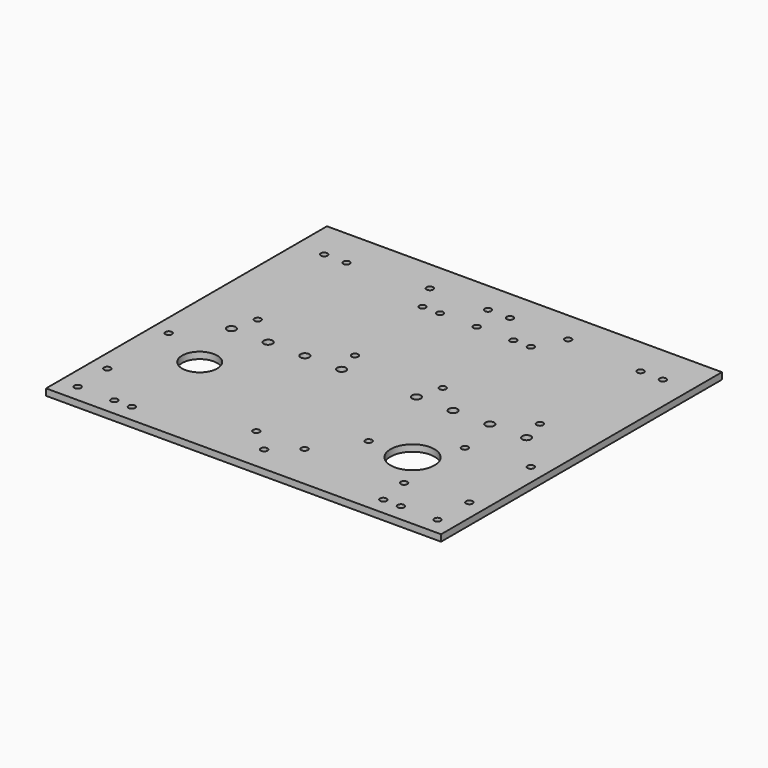
from build123d import *

# Parameters (mm, degrees)
SKETCH_R      = 1.5
SKETCH_R_2    = 2
PAD_DEPTH     = 3
SKETCH001_R   = 8
SKETCH001_R_2 = 1.5
SKETCH001_R_3 = 10
POCKET_DEPTH  = 3.001


with BuildPart() as part:
    # Sketch → Pad (new body)
    with BuildSketch(Plane.XY):
        with BuildLine():
            Line((0, 13.7), (0, 160))
            Line((0, 160), (90, 160))
            Line((90, 160), (90, 17.4))
            Line((90, 17.4), (90, 13.2))
            ThreePointArc((90, 13.2), (88.5, 11.7), (90, 10.2))
            Line((90, 6), (90, 10.2))
            Line((90, 6), (90, 0))
            Line((90, 0), (13.7, 0))
            Line((0, 0), (13.7, 0))
            Line((0, 13.7), (0, 0))
        make_face()
        with Locations((24.7, 8)):
            Circle(SKETCH_R, mode=Mode.SUBTRACT)
        with Locations((32.7, 8)):
            Circle(SKETCH_R, mode=Mode.SUBTRACT)
        with Locations((79, 21)):
            Circle(SKETCH_R, mode=Mode.SUBTRACT)
        with Locations((22.74, 77.15)):
            Circle(SKETCH_R_2, mode=Mode.SUBTRACT)
        with Locations((39.48, 77.15)):
            Circle(SKETCH_R_2, mode=Mode.SUBTRACT)
        with Locations((56.22, 77.15)):
            Circle(SKETCH_R_2, mode=Mode.SUBTRACT)
        with Locations((72.96, 77.15)):
            Circle(SKETCH_R_2, mode=Mode.SUBTRACT)
        with Locations((25.7, 88.45)):
            Circle(SKETCH_R, mode=Mode.SUBTRACT)
        with Locations((70, 88.45)):
            Circle(SKETCH_R, mode=Mode.SUBTRACT)
        with Locations((8, 8)):
            Circle(SKETCH_R, mode=Mode.SUBTRACT)
        with Locations((7.5, 60.5)):
            Circle(SKETCH_R, mode=Mode.SUBTRACT)
        with Locations((7.5, 25.5)):
            Circle(SKETCH_R, mode=Mode.SUBTRACT)
        with Locations((85, 145.5)):
            Circle(SKETCH_R, mode=Mode.SUBTRACT)
        with Locations((58.5, 145.5)):
            Circle(SKETCH_R, mode=Mode.SUBTRACT)
        with Locations((12.8, 142.4)):
            Circle(SKETCH_R, mode=Mode.SUBTRACT)
        with Locations((23, 142.4)):
            Circle(SKETCH_R, mode=Mode.SUBTRACT)
    pad = extrude(amount=PAD_DEPTH)

    # Mirrored: Pad across face of Pad
    add(pad.mirror(Plane(origin=(90, 88.7, 1.5), x_dir=(0, 1, 0), z_dir=(1, 0, 0))))

    # Sketch001 → Pocket (cut, through all)
    with BuildSketch(Plane.XY.offset(3)):
        with Locations((30, 50)):
            Circle(SKETCH001_R)
        with Locations((90, 132.8)):
            Circle(SKETCH001_R_2)
        with Locations((106.7, 132.8)):
            Circle(SKETCH001_R_2)
        with Locations((114.7, 132.8)):
            Circle(SKETCH001_R_2)
        with Locations((73.3, 132.8)):
            Circle(SKETCH001_R_2)
        with Locations((65.3, 132.8)):
            Circle(SKETCH001_R_2)
        with Locations((135, 40)):
            Circle(SKETCH001_R_3)
        with Locations((115, 40)):
            Circle(SKETCH001_R_2)
        with Locations((145, 57.320508)):
            Circle(SKETCH001_R_2)
        with Locations((145, 22.679492)):
            Circle(SKETCH001_R_2)
    extrude(amount=-POCKET_DEPTH, mode=Mode.SUBTRACT)


solid = part.part
